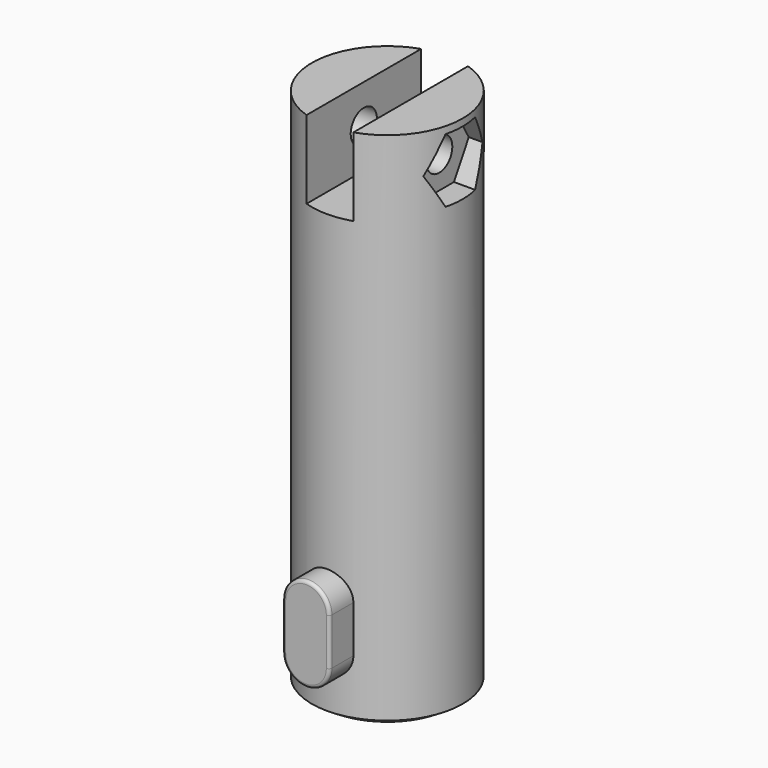
from build123d import *

# Parameters (mm, degrees)
F0_R           = 4.825
F1_DEPTH       = 33
F3_DEPTH       = 6.5
F4_R           = 0.2
F8_DEPTH       = 5
F9_R           = 1.05
F10_DEPTH      = 4.8260001
F10_DEPTH_BACK = 4.8260001
F12_START      = 3.325
F12_DEPTH      = 1.5010001
F14_START      = -3.325
F13_R          = 2
F14_DEPTH      = 1.5010001118


with BuildPart() as f1:
    # F0 (on Top) → F1 (new body)
    with BuildSketch(Plane.XY):
        Circle(F0_R)
    extrude(amount=F1_DEPTH)

    # F2 (on Front) → F3 (join)
    with BuildSketch(Plane.XZ):
        with BuildLine():
            ThreePointArc((-1.5, 3.5), (0, 2), (1.5, 3.5))
            Line((1.5, 3.5), (1.5, 6.5))
            ThreePointArc((1.5, 6.5), (0, 8), (-1.5, 6.5))
            Line((-1.5, 6.5), (-1.5, 3.5))
        make_face()
    extrude(amount=F3_DEPTH)

    # F4
    f4_edges = [f1.edges().sort_by_distance(p)[0] for p in [
        (0, -6.5, 2),
        (1.5, -6.5, 5),
        (0, -6.5, 8),
        (-1.5, -6.5, 5),
    ]]
    fillet(f4_edges, radius=F4_R)

    # F5 (on Front) → F6 (revolve)
    with BuildSketch(Plane.XZ):
        with BuildLine():
            Line((0, 0), (-4.825, 0))
            ThreePointArc((-4.825, 0), (-2.5263919431, -1.1163524169), (0, -1.5))
            Line((0, -1.5), (0, 0))
        make_face()
    revolve(axis=Axis((0, 0, -1.4078605181), (0, 0, -1)))

    # F7 (on face) → F8 (cut)
    with BuildSketch(Plane.XY.offset(33)):
        with BuildLine():
            ThreePointArc((1.5, 4.585915939), (0, 4.825), (-1.5, 4.585915939))
            Line((-1.5, 4.585915939), (-1.5, -4.585915939))
            ThreePointArc((-1.5, -4.585915939), (0, -4.825), (1.5, -4.585915939))
            Line((1.5, -4.585915939), (1.5, 4.585915939))
        make_face()
    extrude(amount=-F8_DEPTH, mode=Mode.SUBTRACT)

    # F9 (on Right) → F10 (cut, two sides)
    with BuildSketch(Plane.YZ) as f10_sk:
        with Locations((0, 30.5)):
            Circle(F9_R)
    extrude(amount=F10_DEPTH, mode=Mode.SUBTRACT)
    extrude(f10_sk.sketch, amount=-F10_DEPTH_BACK, mode=Mode.SUBTRACT)

    # F11 (on Right) → F12 (cut)
    with BuildSketch(Plane.YZ.offset(F12_START)):
        Polygon((1.1835680518, 28.45), (2.3671361037, 30.5), (1.1835680518, 32.55), (-1.1835680518, 32.55), (-2.3671361037, 30.5), (-1.1835680518, 28.45), align=None)
    extrude(amount=F12_DEPTH, mode=Mode.SUBTRACT)

    # F13 (on Right) → F14 (cut)
    with BuildSketch(Plane.YZ.offset(F14_START)):
        with Locations((0, 30.5)):
            Circle(F13_R)
    extrude(amount=-F14_DEPTH, mode=Mode.SUBTRACT)


solid = f1.part
